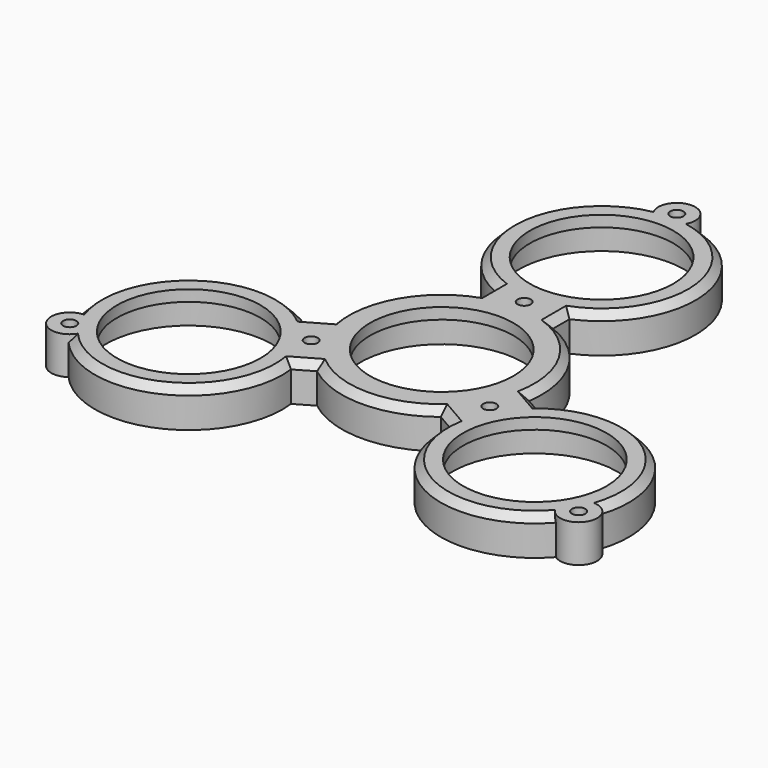
from build123d import *

# Parameters (mm, degrees)
F0_R     = 11
F0_R_2   = 11.2
F1_DEPTH = 3.6
F2_R     = 11.2
F2_R_2   = 11
F2_R_3   = 9.7
F3_DEPTH = 1.5
F5_R     = 0.9
F6_DEPTH = 5.1
F7_SIZE  = 1


with BuildPart() as f1:
    # F0 (on Top) → F1 (new body)
    with BuildSketch(Plane.XY):
        with BuildLine():
            ThreePointArc((-2.4878611303, 39.4539370079), (-12.6317197215, 28.3151642022), (-5, 15.3256691841))
            Line((-5, 15.3256691841), (-5, 12.539936204))
            ThreePointArc((-5, 12.539936204), (-11.6913429511, 6.75), (-13.3599033145, -1.9398410831))
            ThreePointArc((-13.3599033145, -1.9398410831), (-11.6913429511, -6.75), (-8.3599033145, -10.6000951209))
            ThreePointArc((-8.3599033145, -10.6000951209), (0, -13.5), (8.3599033145, -10.6000951209))
            ThreePointArc((8.3599033145, -10.6000951209), (11.6913429511, -6.75), (13.3599033145, -1.9398410831))
            ThreePointArc((13.3599033145, -1.9398410831), (11.6913429511, 6.75), (5, 12.539936204))
            Line((5, 12.539936204), (5, 15.3256691841))
            ThreePointArc((5, 15.3256691841), (12.6317197215, 28.3151642022), (2.4878611303, 39.4539370079))
            ThreePointArc((2.4878611303, 39.4539370079), (0, 42.2), (-2.4878611303, 39.4539370079))
        make_face()
        Circle(F0_R, mode=Mode.SUBTRACT)
        with Locations((0, 27)):
            Circle(F0_R_2, mode=Mode.SUBTRACT)
        with BuildLine():
            ThreePointArc((-8.3599033145, -10.6000951209), (-11.6913429511, -6.75), (-13.3599033145, -1.9398410831))
            Line((-13.3599033145, -1.9398410831), (-15.7724188434, -3.3327075731))
            ThreePointArc((-15.7724188434, -3.3327075731), (-30.8375113722, -3.2181919288), (-35.4120422933, -17.572417564))
            ThreePointArc((-35.4120422933, -17.572417564), (-36.5462720397, -21.1), (-32.924181163, -21.8815194439))
            ThreePointArc((-32.924181163, -21.8815194439), (-18.2057916507, -25.0969722734), (-10.7724188434, -11.992961611))
            Line((-10.7724188434, -11.992961611), (-8.3599033145, -10.6000951209))
        make_face()
        with Locations((-23.3826859022, -13.5)):
            Circle(F0_R_2, mode=Mode.SUBTRACT)
        with BuildLine():
            ThreePointArc((13.3599033145, -1.9398410831), (11.6913429511, -6.75), (8.3599033145, -10.6000951209))
            Line((8.3599033145, -10.6000951209), (10.7724188434, -11.992961611))
            ThreePointArc((10.7724188434, -11.992961611), (18.2057916507, -25.0969722734), (32.924181163, -21.8815194439))
            ThreePointArc((32.924181163, -21.8815194439), (36.5462720397, -21.1), (35.4120422933, -17.572417564))
            ThreePointArc((35.4120422933, -17.572417564), (30.8375113722, -3.2181919288), (15.7724188434, -3.3327075731))
            Line((15.7724188434, -3.3327075731), (13.3599033145, -1.9398410831))
        make_face()
        with Locations((23.3826859022, -13.5)):
            Circle(F0_R_2, mode=Mode.SUBTRACT)
    extrude(amount=F1_DEPTH)

    # F2 (on face) → F3 (join)
    with BuildSketch(Plane.XY.offset(3.6)):
        with BuildLine():
            Line((5, 12.539936204), (5, 15.3256691841))
            ThreePointArc((5, 15.3256691841), (12.6317197215, 28.3151642022), (2.4878611303, 39.4539370079))
            ThreePointArc((2.4878611303, 39.4539370079), (0, 42.2), (-2.4878611303, 39.4539370079))
            ThreePointArc((-2.4878611303, 39.4539370079), (-12.6317197215, 28.3151642022), (-5, 15.3256691841))
            Line((-5, 15.3256691841), (-5, 12.539936204))
            ThreePointArc((-5, 12.539936204), (-11.6913429511, 6.75), (-13.3599033145, -1.9398410831))
            Line((-13.3599033145, -1.9398410831), (-15.7724188434, -3.3327075731))
            ThreePointArc((-15.7724188434, -3.3327075731), (-30.8375113722, -3.2181919288), (-35.4120422933, -17.572417564))
            ThreePointArc((-35.4120422933, -17.572417564), (-36.5462720397, -21.1), (-32.924181163, -21.8815194439))
            ThreePointArc((-32.924181163, -21.8815194439), (-18.2057916507, -25.0969722734), (-10.7724188434, -11.992961611))
            Line((-10.7724188434, -11.992961611), (-8.3599033145, -10.6000951209))
            ThreePointArc((-8.3599033145, -10.6000951209), (0, -13.5), (8.3599033145, -10.6000951209))
            Line((8.3599033145, -10.6000951209), (10.7724188434, -11.992961611))
            ThreePointArc((10.7724188434, -11.992961611), (18.2057916507, -25.0969722734), (32.924181163, -21.8815194439))
            ThreePointArc((32.924181163, -21.8815194439), (36.5462720397, -21.1), (35.4120422933, -17.572417564))
            ThreePointArc((35.4120422933, -17.572417564), (30.8375113722, -3.2181919288), (15.7724188434, -3.3327075731))
            Line((15.7724188434, -3.3327075731), (13.3599033145, -1.9398410831))
            ThreePointArc((13.3599033145, -1.9398410831), (11.6913429511, 6.75), (5, 12.539936204))
        make_face()
        with Locations((-23.3826859022, -13.5)):
            Circle(F2_R, mode=Mode.SUBTRACT)
        with Locations((23.3826859022, -13.5)):
            Circle(F2_R, mode=Mode.SUBTRACT)
        Circle(F2_R_2, mode=Mode.SUBTRACT)
        with Locations((0, 27)):
            Circle(F2_R, mode=Mode.SUBTRACT)
        with Locations((0, 27)):
            Circle(F2_R)
        with Locations((0, 27)):
            Circle(F2_R_3, mode=Mode.SUBTRACT)
        with Locations((-23.3826859022, -13.5)):
            Circle(F2_R)
        with Locations((-23.3826859022, -13.5)):
            Circle(F2_R_3, mode=Mode.SUBTRACT)
        with Locations((23.3826859022, -13.5)):
            Circle(F2_R)
        with Locations((23.3826859022, -13.5)):
            Circle(F2_R_3, mode=Mode.SUBTRACT)
        Circle(F2_R_2)
        Circle(F2_R_3, mode=Mode.SUBTRACT)
    extrude(amount=F3_DEPTH)

    # F5 (on face) → F6 (cut, through all)
    with BuildSketch(Plane.XY.offset(5.1)):
        with Locations((0, 39.7)):
            Circle(F5_R)
        with Locations((0, 13.932802694)):
            Circle(F5_R)
        with Locations((-12.0661610789, -6.966401347)):
            Circle(F5_R)
        with Locations((-34.3812085302, -19.85)):
            Circle(F5_R)
        with Locations((12.0661610789, -6.966401347)):
            Circle(F5_R)
        with Locations((34.3812085302, -19.85)):
            Circle(F5_R)
    extrude(amount=-F6_DEPTH, mode=Mode.SUBTRACT)

    # F7
    f7_edges = [f1.edges().sort_by_distance(p)[0] for p in [
        (-18.205792, -25.096972, 5.1),
        (-9.566161, -11.296528, 5.1),
        (0, -13.5, 5.1),
        (9.566161, -11.296528, 5.1),
        (18.205792, -25.096972, 5.1),
        (30.837511, -3.218192, 5.1),
        (14.566161, -2.636274, 5.1),
        (11.691343, 6.75, 5.1),
        (5, 13.932803, 5.1),
        (12.63172, 28.315164, 5.1),
        (-12.63172, 28.315164, 5.1),
        (-5, 13.932803, 5.1),
        (-11.691343, 6.75, 5.1),
        (-14.566161, -2.636274, 5.1),
        (-30.837511, -3.218192, 5.1),
    ]]
    chamfer(f7_edges, length=F7_SIZE)


solid = f1.part
